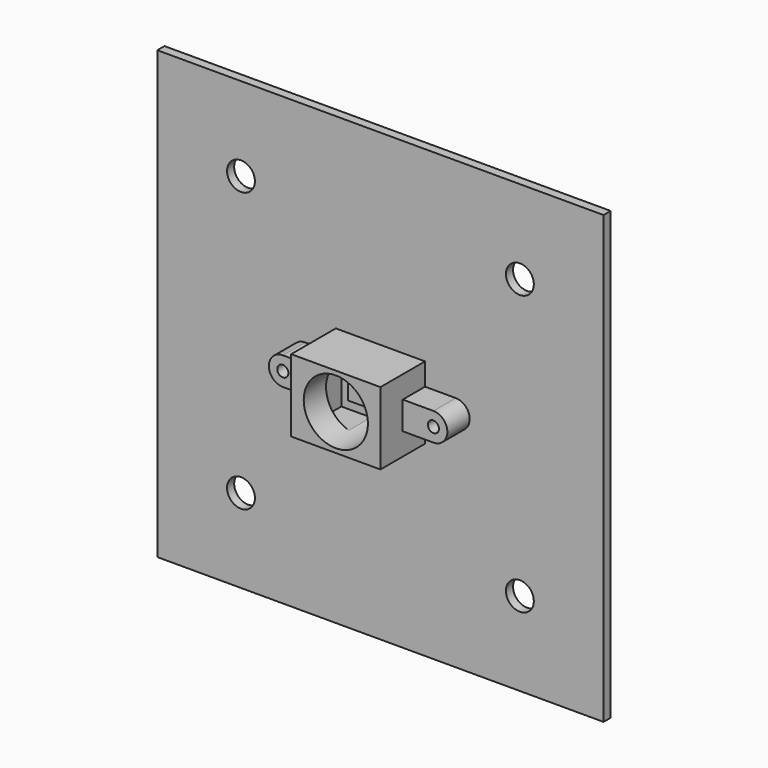
from build123d import *

# Parameters (mm, degrees)
F0_W     = 80
F0_H     = 80
F0_R     = 2.5
F0_R_2   = 1
F0_W_2   = 10
F0_H_2   = 7
F1_DEPTH = 1.6
F2_DEPTH = 1
F3_R     = 1
F3_W     = 14
F3_H     = 11
F4_DEPTH = 5
F5_W     = 14
F5_H     = 11
F6_DEPTH = 5
F8_D     = 11.5


with BuildPart() as f1:
    # F0 (on Front) → F1 (new body)
    with BuildSketch(Plane.XZ):
        Rectangle(F0_W, F0_H)
        with Locations((-25, -25)):
            Circle(F0_R, mode=Mode.SUBTRACT)
        with Locations((25, -25)):
            Circle(F0_R, mode=Mode.SUBTRACT)
        with Locations((-13.5, 0)):
            Circle(F0_R_2, mode=Mode.SUBTRACT)
        with Locations((-25, 25)):
            Circle(F0_R, mode=Mode.SUBTRACT)
        Rectangle(F0_W_2, F0_H_2, mode=Mode.SUBTRACT)
        with Locations((13.5, 0)):
            Circle(F0_R_2, mode=Mode.SUBTRACT)
        with Locations((25, 25)):
            Circle(F0_R, mode=Mode.SUBTRACT)
        Rectangle(F0_W_2, F0_H_2)
    extrude(amount=-F1_DEPTH)


with BuildPart() as f2:
    # F0 (on Front) → F2 (new body)
    with BuildSketch(Plane.XZ):
        Rectangle(F0_W_2, F0_H_2)
    extrude(amount=F2_DEPTH)


with BuildPart() as f4:
    # F3 (on face) → F4 (new body)
    with BuildSketch(Plane.XZ):
        with BuildLine():
            Line((8, -2.5), (13.5, -2.5))
            ThreePointArc((13.5, -2.5), (16, 0), (13.5, 2.5))
            Line((13.5000000682, 2.5), (8, 2.5))
            Line((8, 2.5), (8, 6.5))
            Line((8, 6.5), (-8, 6.5))
            Line((-8, 6.5), (-8, 2.5))
            Line((-8, 2.5), (-13.5, 2.5))
            ThreePointArc((-13.5, 2.5), (-16, 3.41e-08), (-13.5000000682, -2.5))
            Line((-13.5000000682, -2.5), (-8, -2.5))
            Line((-8, -2.5), (-8, -6.5))
            Line((-8, -6.5), (8, -6.5))
            Line((8, -6.5), (8, -2.5))
        make_face()
        with Locations((-13.5, 0)):
            Circle(F3_R, mode=Mode.SUBTRACT)
        Rectangle(F3_W, F3_H, mode=Mode.SUBTRACT)
        with Locations((13.5, 0)):
            Circle(F3_R, mode=Mode.SUBTRACT)
    extrude(amount=F4_DEPTH)

    # F5 (on face) → F6 (join)
    with BuildSketch(Plane.XZ.offset(5)):
        Polygon((8, 6.5), (-8, 6.5), (-8, 2.5), (-8, -2.5), (-8, -6.5), (8, -6.5), (8, -2.5), (8, 2.5), align=None)
        Rectangle(F5_W, F5_H, mode=Mode.SUBTRACT)
        Rectangle(F5_W, F5_H)
    extrude(amount=F6_DEPTH)

    # F8 (through all)
    with Locations(Plane.XZ.offset(10)):
        with Locations((0, 0)):
            Hole(F8_D / 2)


solid = Compound([f1.part, f2.part, f4.part])
